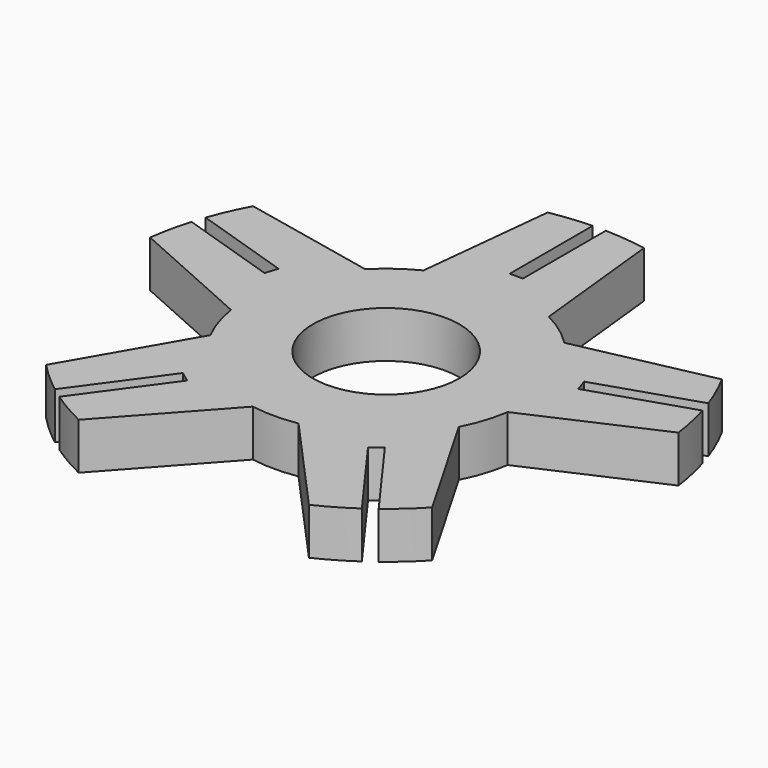
from build123d import *

# Parameters (mm, degrees)
F0_R     = 11
F1_DEPTH = 7


with BuildPart() as f1:
    # F0 (on Top) → F1 (new body)
    with BuildSketch(Plane.XY):
        with BuildLine():
            ThreePointArc((9.403824, 18.776797), (0, 21), (-9.403824, 18.776797))
            ThreePointArc((-9.403824, 18.776797), (-12.34349, 16.989357), (-14.951853, 14.745918))
            ThreePointArc((-14.951853, 14.745918), (-19.972187, 6.489357), (-20.763736, -3.141219))
            ThreePointArc((-20.763736, -3.141219), (-19.972187, -6.489357), (-18.644578, -9.663318))
            ThreePointArc((-18.644578, -9.663318), (-12.34349, -16.989357), (-3.42887, -20.718177))
            ThreePointArc((-3.42887, -20.718177), (0, -21), (3.42887, -20.718177))
            ThreePointArc((3.42887, -20.718177), (12.34349, -16.989357), (18.644578, -9.663318))
            ThreePointArc((18.644578, -9.663318), (19.972187, -6.489357), (20.763736, -3.141219))
            ThreePointArc((20.763736, -3.141219), (20.940851, -1.575046), (21, 0))
            ThreePointArc((21, 0), (19.429217, 7.969036), (14.951853, 14.745918))
            ThreePointArc((14.951853, 14.745918), (12.34349, 16.989357), (9.403824, 18.776797))
        make_face()
        Circle(F0_R, mode=Mode.SUBTRACT)
        with BuildLine():
            Line((-0.986697, 24.434563), (-0.986697, 39.987829))
            ThreePointArc((-0.986697, 39.987829), (-4.11855, 39.787404), (-7.225052, 39.342072))
            Line((-7.225052, 39.342072), (-9.403824, 18.776797))
            ThreePointArc((-9.403824, 18.776797), (0, 21), (9.403824, 18.776797))
            Line((9.403824, 18.776797), (7.225052, 39.342072))
            ThreePointArc((7.225052, 39.342072), (4.11855, 39.787404), (0.986697, 39.987829))
            Line((0.986697, 39.987829), (0.986697, 24.434563))
            Line((0.986697, 24.434563), (-0.986697, 24.434563))
        make_face()
        with BuildLine():
            Line((35.18387, 19.028802), (14.951853, 14.745918))
            ThreePointArc((14.951853, 14.745918), (19.429217, 7.969036), (21, 0))
            ThreePointArc((21, 0), (20.940851, -1.575046), (20.763736, -3.141219))
            Line((20.763736, -3.141219), (39.649198, 5.285936))
            ThreePointArc((39.649198, 5.285936), (39.112772, 8.37801), (38.335591, 11.418514))
            Line((38.335591, 11.418514), (23.543556, 6.612291))
            Line((23.543556, 6.612291), (22.933744, 8.4891))
            Line((22.933744, 8.4891), (37.725779, 13.295323))
            ThreePointArc((37.725779, 13.295323), (36.567368, 16.211958), (35.18387, 19.028802))
        make_face()
        with BuildLine():
            Line((28.96988, -27.581626), (18.644578, -9.663318))
            ThreePointArc((18.644578, -9.663318), (12.34349, -16.989357), (3.42887, -20.718177))
            Line((3.42887, -20.718177), (17.2795, -36.075184))
            ThreePointArc((17.2795, -36.075184), (20.054472, -34.609509), (22.706001, -32.930799))
            Line((22.706001, -32.930799), (13.564021, -20.347942))
            Line((13.564021, -20.347942), (15.16053, -19.188011))
            Line((15.16053, -19.188011), (24.30251, -31.770867))
            ThreePointArc((24.30251, -31.770867), (26.718427, -29.767863), (28.96988, -27.581626))
        make_face()
        with BuildLine():
            ThreePointArc((-3.42887, -20.718177), (-12.34349, -16.989357), (-18.644578, -9.663318))
            Line((-18.644578, -9.663318), (-28.96988, -27.581626))
            ThreePointArc((-28.96988, -27.581626), (-26.718427, -29.767863), (-24.30251, -31.770867))
            Line((-24.30251, -31.770867), (-15.16053, -19.188011))
            Line((-15.16053, -19.188011), (-13.564021, -20.347942))
            Line((-13.564021, -20.347942), (-22.706001, -32.930799))
            ThreePointArc((-22.706001, -32.930799), (-20.054472, -34.609509), (-17.2795, -36.075184))
            Line((-17.2795, -36.075184), (-3.42887, -20.718177))
        make_face()
        with BuildLine():
            ThreePointArc((-20.763736, -3.141219), (-19.972187, 6.489357), (-14.951853, 14.745918))
            Line((-14.951853, 14.745918), (-35.18387, 19.028802))
            ThreePointArc((-35.18387, 19.028802), (-36.567368, 16.211958), (-37.725779, 13.295323))
            Line((-37.725779, 13.295323), (-22.933744, 8.4891))
            Line((-22.933744, 8.4891), (-23.543556, 6.612291))
            Line((-23.543556, 6.612291), (-38.335591, 11.418514))
            ThreePointArc((-38.335591, 11.418514), (-39.112772, 8.37801), (-39.649198, 5.285936))
            Line((-39.649198, 5.285936), (-20.763736, -3.141219))
        make_face()
    extrude(amount=F1_DEPTH)


solid = f1.part
